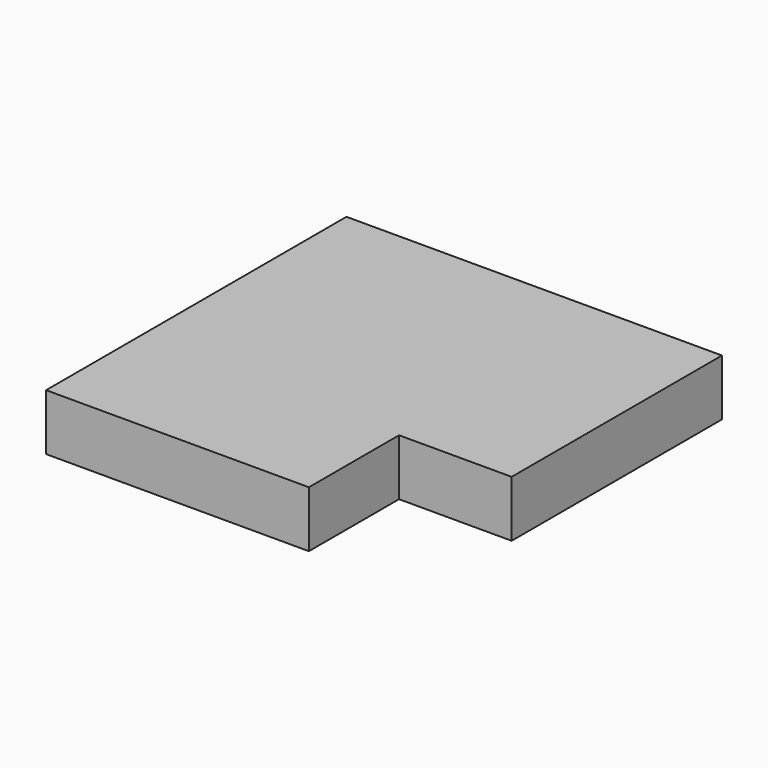
from build123d import *

# Parameters (mm, degrees)
BOX007_W     = 60
BOX007_H     = 60
BOX007_DEPTH = 30
BOX006_W     = 200
BOX006_H     = 200
BOX006_DEPTH = 30


with BuildPart() as obj1:
    # Box007 → Box007 (new body)
    with BuildSketch(Plane(origin=(1020, 1225, 0), x_dir=(1, 0, 0), z_dir=(0, 0, 1))):
        with Locations((30, 30)):
            Rectangle(BOX007_W, BOX007_H)
    extrude(amount=BOX007_DEPTH)


with BuildPart() as cut002:
    # Box006 → Box006 (new body)
    with BuildSketch(Plane(origin=(880, 1225, 0), x_dir=(1, 0, 0), z_dir=(0, 0, 1))):
        with Locations((100, 100)):
            Rectangle(BOX006_W, BOX006_H)
    extrude(amount=BOX006_DEPTH)

    # Cut002: cut obj1
    add(obj1.part, mode=Mode.SUBTRACT)


solid = cut002.part
